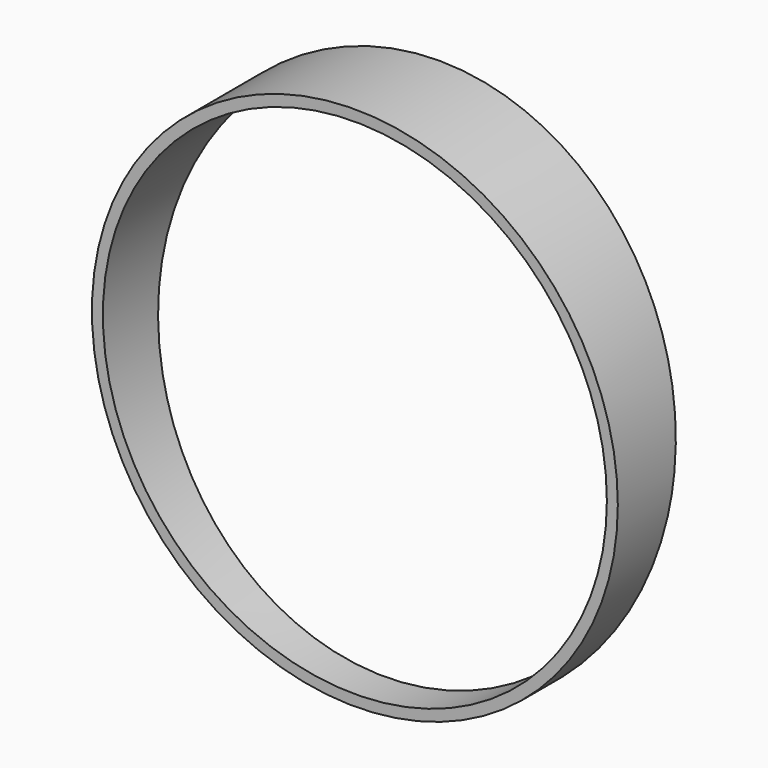
from build123d import *

# Parameters (mm, degrees)
F0_R     = 38.1
F0_R_2   = 36.5125
F1_DEPTH = 9.9441
F3_DEPTH = 38.1


with BuildPart() as f1:
    # F0 (on Front) → F1 (new body, symmetric)
    with BuildSketch(Plane.XZ):
        with Locations((0, 38.1)):
            Circle(F0_R)
        with Locations((0, 38.1)):
            Circle(F0_R_2, mode=Mode.SUBTRACT)
    extrude(amount=F1_DEPTH, both=True)

    # F2 (on Right) → F3 (cut, symmetric)
    with BuildSketch(Plane.YZ):
        Polygon((10.787756, 76.2), (5.316032, 76.2), (-5.941928, -9.312698), (10.787756, -9.312698), align=None)
    extrude(amount=F3_DEPTH, both=True, mode=Mode.SUBTRACT)


solid = f1.part
